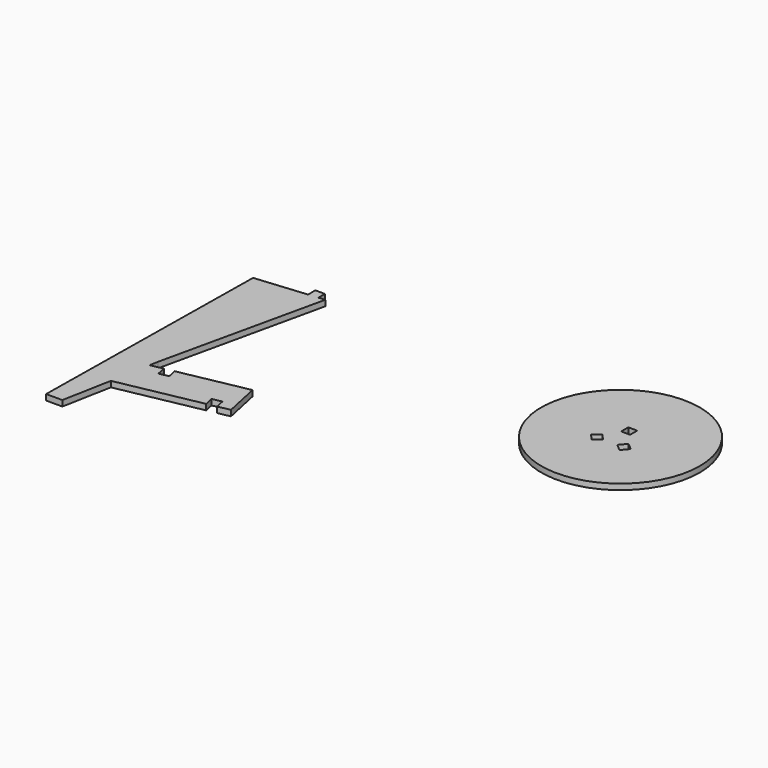
from build123d import *

# Parameters (mm, degrees)
F0_R     = 24.831527
F0_W     = 2.8
F0_H     = 2.8
F1_DEPTH = 1.8
F2_DEPTH = 1.8


with BuildPart() as f1:
    # F0 (on Top) → F1 (new body)
    with BuildSketch(Plane.XY):
        with Locations((49.203186, 22.658541)):
            Circle(F0_R)
        Polygon((44.973136, 20.936677), (46.772941, 18.791753), (44.628017, 16.991947), (42.828211, 19.136872), align=None, mode=Mode.SUBTRACT)
        Polygon((55.226966, 19.136872), (53.427161, 16.991947), (51.282236, 18.791753), (53.082041, 20.936677), align=None, mode=Mode.SUBTRACT)
        with Locations((48.979597, 26.328922)):
            Rectangle(F0_W, F0_H, mode=Mode.SUBTRACT)
    extrude(amount=F1_DEPTH)


with BuildPart() as f2:
    # F0 (on Top) → F2 (new body)
    with BuildSketch(Plane.XY):
        Polygon((-34.01401, -25.720568), (-36.470621, -14.237462), (-57.534322, -18.342767), (-56.932723, -21.219551), (-59.873585, -21.834586), (-60.483539, -18.917538), (-64.320084, -19.665296), (-63.847847, -16.987897), (-52.421887, 34.187576), (-54.441789, 33.998181), (-54.441789, 36.562538), (-57.446257, 36.562538), (-57.446257, 33.716545), (-73.449329, 32.216206), (-74.543319, -47.40374), (-69.441821, -47.40374), (-66.548329, -32.061525), (-40.737113, -27.03091), (-41.333373, -24.179878), (-38.392511, -23.564886), (-37.787896, -26.456096), align=None)
    extrude(amount=F2_DEPTH)


solid = Compound([f1.part, f2.part])
